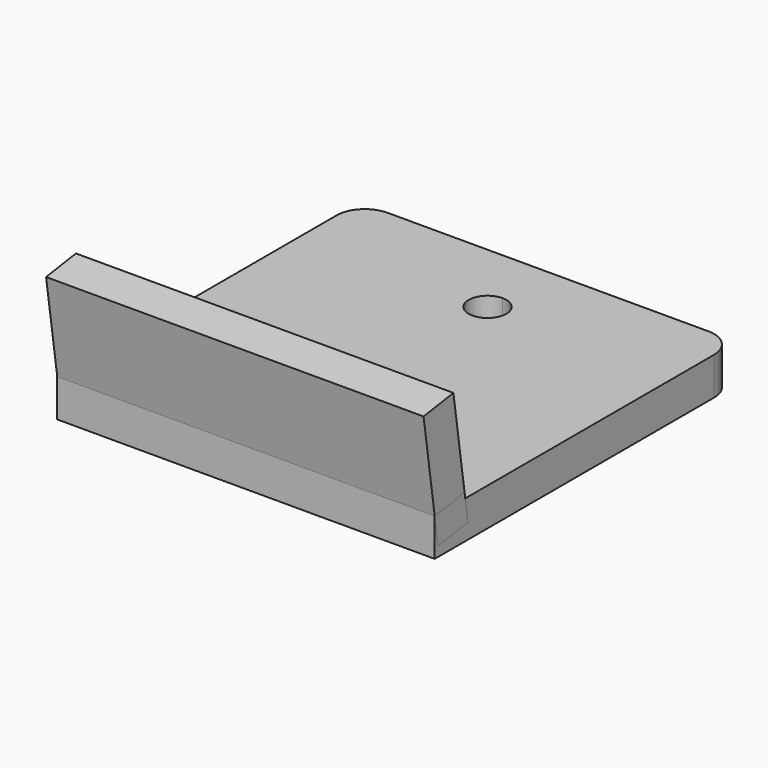
from build123d import *

# Parameters (mm, degrees)
F1_DEPTH  = 4
F3_W      = 40
F3_H      = 4
F4_DEPTH  = 10
F4_FACE_W = 40
F4_FACE_H = 4
F5_DEPTH  = 3


with BuildPart() as f1:
    # F0 (on Top) → F1 (new body)
    with BuildSketch(Plane.XY):
        with BuildLine():
            Line((20, 0), (3, 0))
            ThreePointArc((3, 0), (0.87868, -0.87868), (0, -3))
            Line((0, -3), (0, -40))
            Line((0, -40), (20, -40))
            Line((20, -40), (40, -40))
            Line((40, -40), (40, -3))
            ThreePointArc((40, -3), (39.12132, -0.87868), (37, 0))
            Line((37, 0), (20, 0))
        make_face()
        with BuildLine():
            ThreePointArc((22, -24), (21.414214, -25.414214), (20, -26))
            ThreePointArc((20, -26), (18.585786, -22.585786), (22, -24))
        make_face(mode=Mode.SUBTRACT)
        with BuildLine():
            ThreePointArc((22, -8), (18.585786, -9.414214), (20, -6))
            ThreePointArc((20, -6), (21.414214, -6.585786), (22, -8))
        make_face(mode=Mode.SUBTRACT)
    extrude(amount=F1_DEPTH)


with BuildPart() as f4:
    # F3 (on face) → F4 (new body)
    with BuildSketch(Plane(origin=(0, -1.458648, 9.760044), x_dir=(1, 0, 0), z_dir=(0, -0.147809, 0.989016))):
        with Locations((20, -36.969397)):
            Rectangle(F3_W, F3_H)
    extrude(amount=F4_DEPTH)


with BuildPart() as f5:
    # F4_face (on face) → F5 (new body)
    with BuildSketch(Plane(origin=(20, -38.021968, 4.295619), x_dir=(1, 0, 0), z_dir=(0, 0.147809, -0.989016))):
        Rectangle(F4_FACE_W, F4_FACE_H)
    extrude(amount=F5_DEPTH)


solid = Compound([f1.part, f4.part, f5.part])
